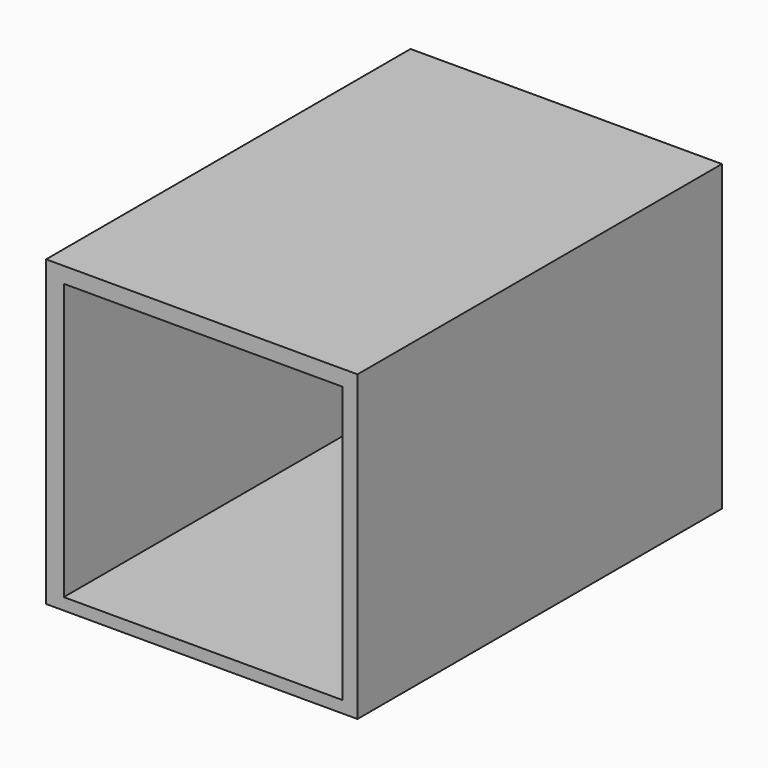
from build123d import *

# Parameters (mm, degrees)
F0_W     = 60.769149
F0_H     = 59.218914
F1_DEPTH = 88.9


with BuildPart() as f1:
    # F0 (on Front) → F1 (new body)
    with BuildSketch(Plane.XZ):
        with Locations((-35.844262, 35.50367)):
            Rectangle(F0_W, F0_H)
        Polygon((-62.772825, 8.203791), (-62.772825, 62.035404), (-61.113629, 62.035404), (-8.388147, 62.035404), (-8.388147, 8.203791), (-61.113629, 8.203791), align=None, mode=Mode.SUBTRACT)
    extrude(amount=F1_DEPTH)


solid = f1.part
